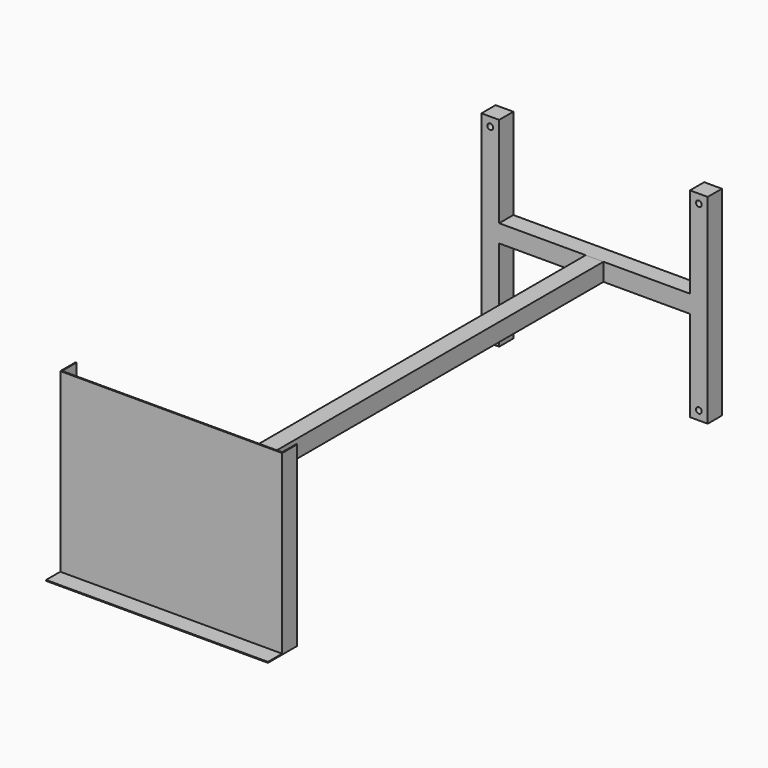
from build123d import *

# Parameters (mm, degrees)
F0_W        = 500
F0_H        = 400
F1_DEPTH    = 2.5
F2_W        = 500
F2_H        = 2
F3_DEPTH    = 40
F4_W        = 2
F4_H        = 400
F5_DEPTH    = 40
F6_W        = 30
F6_H        = 113.1506699189
F7_DEPTH    = 70
F8_W        = 28
F8_H        = 68
F9_DEPTH    = 260.001
F12_DEPTH   = 40
F13_W       = 36
F13_H       = 36
F14_DEPTH   = 1151
F16_D       = 13
F16_DEPTH   = 50
F16_TIP     = 3.9055940237
F16_2_D     = 13
F16_2_DEPTH = 50
F16_2_TIP   = 3.9055940237
F18_W       = 430
F18_H       = 40
F19_DEPTH   = 40
F21_DEPTH   = 465.001
F23_W       = 40
F23_H       = 450
F24_DEPTH   = 40
F27_D       = 13
F27_DEPTH   = 50
F27_TIP     = 3.9055940237


with BuildPart() as f1:
    # F0 (on Front) → F1 (new body)
    with BuildSketch(Plane.XZ):
        Rectangle(F0_W, F0_H)
    extrude(amount=F1_DEPTH)

    # F2 (on face) → F3 (join)
    with BuildSketch(Plane.XZ.offset(2.5)):
        with Locations((0, -199)):
            Rectangle(F2_W, F2_H)
    extrude(amount=F3_DEPTH)

    # F4 (on face) → F5 (join)
    with BuildSketch(Plane(origin=(0, 0, 0), x_dir=(-1, 0, 0), z_dir=(0, 1, 0))):
        with Locations((-249, 0)):
            Rectangle(F4_W, F4_H)
        with Locations((249, 0)):
            Rectangle(F4_W, F4_H)
    extrude(amount=F5_DEPTH)

    # F6 (on face) → F7 (join)
    with BuildSketch(Plane(origin=(0, 0, 0), x_dir=(-1, 0, 0), z_dir=(0, 1, 0))):
        with Locations((-35.5, 3.4246650405)):
            Rectangle(F6_W, F6_H)
        with Locations((35.5, 3.4246650405)):
            Rectangle(F6_W, F6_H)
    extrude(amount=F7_DEPTH)

    # F8 (on face) → F9 (cut, through all)
    with BuildSketch(Plane.XY.offset(60)):
        with Locations((36.5, 36)):
            Rectangle(F8_W, F8_H)
        with Locations((-36.5, 36)):
            Rectangle(F8_W, F8_H)
    extrude(amount=-F9_DEPTH, mode=Mode.SUBTRACT)

    # F16
    with Locations(Plane(origin=(-22.5, 0, 0), x_dir=(0, -1, 0), z_dir=(-1, 0, 0))):
        with Locations((-53.75, 0)):
            Hole(F16_D / 2, depth=F16_DEPTH)
            with Locations((0, 0, -(F16_DEPTH + F16_TIP / 2))):  # 118° drill point
                Cone(0, F16_D / 2, F16_TIP, mode=Mode.SUBTRACT)


with BuildPart() as f12:
    # F11 (on offset) → F12 (new body)
    with BuildSketch(Plane.XY.offset(20)):
        Polygon((-20, 40), (0, 40), (20, 40), (20, 1190), (0, 1190), (-20, 1190), align=None)
    extrude(amount=-F12_DEPTH)

    # F13 (on face) → F14 (cut)
    with BuildSketch(Plane(origin=(0, 1190, 0), x_dir=(-1, 0, 0), z_dir=(0, 1, 0))):
        Rectangle(F13_W, F13_H)
    extrude(amount=-F14_DEPTH, mode=Mode.SUBTRACT)

    # F16#2
    with Locations(Plane(origin=(-22.5, 0, 0), x_dir=(0, -1, 0), z_dir=(-1, 0, 0))):
        with Locations((-53.75, 0)):
            Hole(F16_2_D / 2, depth=F16_2_DEPTH)
            with Locations((0, 0, -(F16_2_DEPTH + F16_2_TIP / 2))):  # 118° drill point
                Cone(0, F16_2_D / 2, F16_2_TIP, mode=Mode.SUBTRACT)


with BuildPart() as f19:
    # F18 (on offset) → F19 (new body)
    with BuildSketch(Plane(origin=(0, 1190, 0), x_dir=(-1, 0, 0), z_dir=(0, 1, 0))):
        Rectangle(F18_W, F18_H)
    extrude(amount=F19_DEPTH)

    # F20 (on face) → F21 (cut, through all)
    with BuildSketch(Plane.YZ.offset(215)):
        Polygon((1228, 18), (1192, 18), (1210, 0), align=None)
        Polygon((1210, 0), (1192, 18), (1192, -18), align=None)
        Polygon((1228, -18), (1210, 0), (1192, -18), align=None)
        Polygon((1228, 18), (1210, 0), (1228, -18), align=None)
    extrude(amount=-F21_DEPTH, mode=Mode.SUBTRACT)

    # F23 (on offset) → F24 (join)
    with BuildSketch(Plane.YZ.offset(215)):
        with Locations((1210, 0)):
            Rectangle(F23_W, F23_H)
    extrude(amount=F24_DEPTH)

    # F25: F19 across plane


with BuildPart() as f19_1:
    add(f19.part)
    add(f19.part.mirror(Plane.YZ))

    # F27
    with Locations(Plane(origin=(0, 1230, 0), x_dir=(-1, 0, 0), z_dir=(0, 1, 0))):
        with Locations((-235, 205), (235, 205), (235, -205), (-235, -205)):
            Hole(F27_D / 2, depth=F27_DEPTH)
            with Locations((0, 0, -(F27_DEPTH + F27_TIP / 2))):  # 118° drill point
                Cone(0, F27_D / 2, F27_TIP, mode=Mode.SUBTRACT)


solid = Compound([f1.part, f12.part, f19_1.part])
